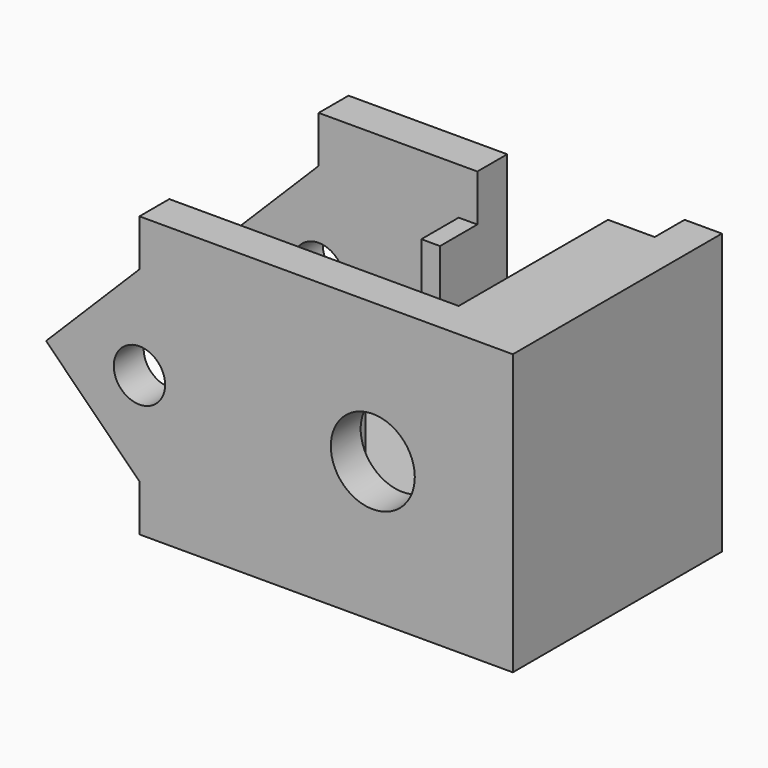
from build123d import *

# Parameters (mm, degrees)
SKETCH058_W     = 50
SKETCH058_H     = 30
PAD015_DEPTH    = 28
SKETCH059_R     = 4.5
HOLE009_DEPTH   = 4
HOLE009_TIPS_R  = 4.5
SKETCH060_W     = 20
SKETCH060_H     = 20
POCKET021_DEPTH = 46
POCKET022_DEPTH = 28.001
SKETCH062_R     = 2.75
HOLE010_DEPTH   = 28.001
SKETCH063_W     = 42
SKETCH063_H     = 20
POCKET023_DEPTH = 25
SKETCH064_W     = 2
SKETCH064_H     = 20
PAD016_DEPTH    = 5
PAD017_DEPTH    = 24
SKETCH066_W     = 5
SKETCH066_H     = 5
PAD018_DEPTH    = 20
SKETCH067_W     = 19
SKETCH067_H     = 25
POCKET024_DEPTH = 4
SKETCH068_W     = 2
SKETCH068_H     = 20
PAD019_DEPTH    = 5


with BuildPart() as part:
    # Sketch058 → Pad015 (new body)
    with BuildSketch(Plane.XZ.offset(-144)):
        with Locations((150, 200)):
            Rectangle(SKETCH058_W, SKETCH058_H)
    extrude(amount=PAD015_DEPTH)

    # Sketch059 (on Face6 of Pad015) → Hole009 (cut)
    with BuildSketch(Plane.XZ.offset(-116)):
        with Locations((160, 200)):
            Circle(SKETCH059_R)
    extrude(amount=-HOLE009_DEPTH, mode=Mode.SUBTRACT)

    # Hole009 tips → Hole009 tip 1 section 0
    with BuildSketch(Plane.XZ.offset(-120), mode=Mode.PRIVATE) as hole009_tip_1_s0:
        with Locations((160, 200)):
            Circle(HOLE009_TIPS_R)
    loft([hole009_tip_1_s0.sketch, Vertex(160, 122.703873, 200)], mode=Mode.SUBTRACT)

    # Sketch060 (on Face2 of Hole009) → Pocket021 (cut)
    with BuildSketch(Plane(origin=(125, 0, 0), x_dir=(0, 0, -1), z_dir=(-1, 0, 0))):
        with Locations((-200, -130)):
            Rectangle(SKETCH060_W, SKETCH060_H)
    extrude(amount=-POCKET021_DEPTH, mode=Mode.SUBTRACT)

    # Sketch061 (on Face5 of Pocket021) → Pocket022 (cut, through all)
    with BuildSketch(Plane.XZ.offset(-116)):
        Polygon((125, 200), (135, 190), (135, 185), (125, 185), (125, 215), (135, 215), (135, 210), align=None)
    extrude(amount=-POCKET022_DEPTH, mode=Mode.SUBTRACT)

    # Sketch062 (on Face4 of Pocket022) → Hole010 (cut, through all)
    with BuildSketch(Plane.XZ.offset(-116)):
        with Locations((135, 200)):
            Circle(SKETCH062_R)
    extrude(amount=-HOLE010_DEPTH, mode=Mode.SUBTRACT)

    # Sketch063 (on Face7 of Hole010) → Pocket023 (cut)
    with BuildSketch(Plane(origin=(0, 0, 215), x_dir=(-1, 0, 0), z_dir=(0, 0, 1))):
        with Locations((-150, -130)):
            Rectangle(SKETCH063_W, SKETCH063_H)
    extrude(amount=-POCKET023_DEPTH, mode=Mode.SUBTRACT)

    # Sketch064 (on Face23 of Pocket023) → Pad016 (join)
    with BuildSketch(Plane(origin=(0, 120, 0), x_dir=(1, 0, 0), z_dir=(0, 1, 0))):
        with Locations((151, -200)):
            Rectangle(SKETCH064_W, SKETCH064_H)
    extrude(amount=PAD016_DEPTH)

    # Sketch065 (on Face2 of Pocket023) → Pad017 (join)
    with BuildSketch(Plane(origin=(0, 144, 0), x_dir=(1, 0, 0), z_dir=(0, 1, 0))):
        with BuildLine():
            Line((166, -190), (171, -190))
            Line((171, -190), (171, -195))
            ThreePointArc((171, -195), (169.535534, -191.464466), (166, -190))
        make_face()
        with BuildLine():
            Line((166, -210), (171, -210))
            Line((171, -210), (171, -205))
            ThreePointArc((166, -210), (169.535534, -208.535534), (171, -205))
        make_face()
    extrude(amount=-PAD017_DEPTH)

    # Sketch066 (on Face21 of Pad017) → Pad018 (join)
    with BuildSketch(Plane.XZ.offset(-140)):
        with Locations((168.5, 212.5)):
            Rectangle(SKETCH066_W, SKETCH066_H)
    extrude(amount=PAD018_DEPTH)

    # Sketch067 (on Face2 of Pad018) → Pocket024 (cut)
    with BuildSketch(Plane(origin=(0, 144, 0), x_dir=(1, 0, 0), z_dir=(0, 1, 0))):
        with Locations((161.5, -202.5)):
            Rectangle(SKETCH067_W, SKETCH067_H)
    extrude(amount=-POCKET024_DEPTH, mode=Mode.SUBTRACT)

    # Sketch068 (on Face26 of Pocket024) → Pad019 (join)
    with BuildSketch(Plane.XZ.offset(-140)):
        with Locations((151, 200)):
            Rectangle(SKETCH068_W, SKETCH068_H)
    extrude(amount=PAD019_DEPTH)


solid = part.part
